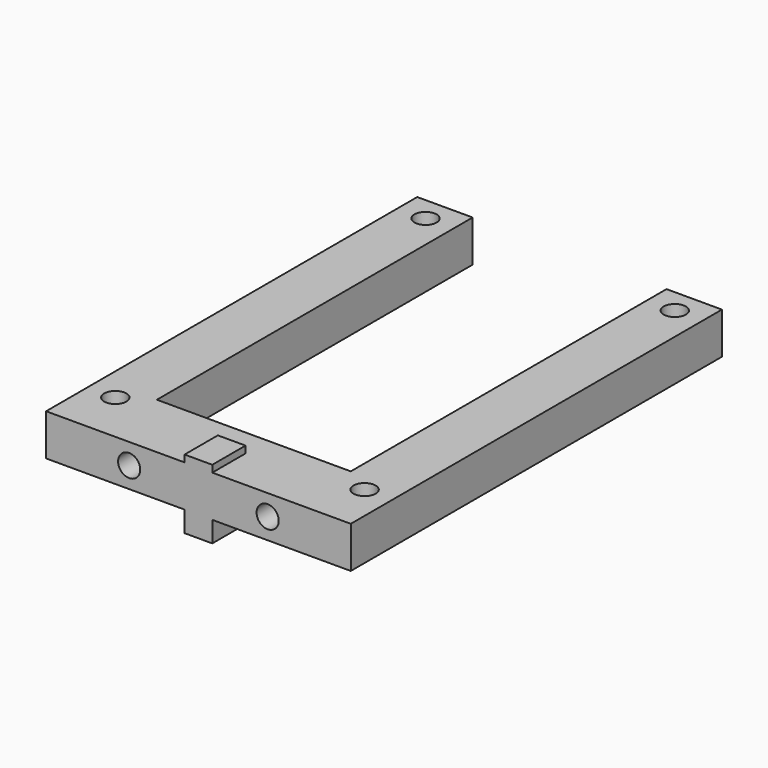
from build123d import *

# Parameters (mm, degrees)
SKETCH_W             = 44
SKETCH_H             = 67
PAD_DEPTH            = 6
SKETCH001_W          = 28
SKETCH001_H          = 60
POCKET_DEPTH         = 0.001
POCKET_DEPTH_BACK    = -6.001
BOX_W                = 4
BOX_H                = 6
BOX_DEPTH            = 10
SKETCH003_R          = 1.6
POCKET002_DEPTH      = 3.001
POCKET002_DEPTH_BACK = -7.001
SKETCH004_R          = 1.6
POCKET003_DEPTH      = 33.501


with BuildPart() as part:
    # Sketch → Pad (new body)
    with BuildSketch(Plane.XY):
        Rectangle(SKETCH_W, SKETCH_H)
    extrude(amount=PAD_DEPTH)

    # Sketch001 → Pocket (cut, two sides)
    with BuildSketch(Plane.XY) as pocket_sk:
        with Locations((0, 6.5)):
            Rectangle(SKETCH001_W, SKETCH001_H)
    extrude(amount=-POCKET_DEPTH, mode=Mode.SUBTRACT)
    extrude(pocket_sk.sketch, amount=-POCKET_DEPTH_BACK, mode=Mode.SUBTRACT)

    # Box → Box (join)
    with BuildSketch(Plane(origin=(-2, -33.5, -3), x_dir=(1, 0, 0), z_dir=(0, 0, 1))):
        with Locations((2, 3)):
            Rectangle(BOX_W, BOX_H)
    extrude(amount=BOX_DEPTH)

    # Sketch003 → Pocket002 (cut, two sides)
    with BuildSketch(Plane.XY) as pocket002_sk:
        with Locations((-18, 30)):
            Circle(SKETCH003_R)
        with Locations((-18, -26)):
            Circle(SKETCH003_R)
        with Locations((18, 30)):
            Circle(SKETCH003_R)
        with Locations((18, -26)):
            Circle(SKETCH003_R)
    extrude(amount=-POCKET002_DEPTH, mode=Mode.SUBTRACT)
    extrude(pocket002_sk.sketch, amount=-POCKET002_DEPTH_BACK, mode=Mode.SUBTRACT)

    # Sketch004 → Pocket003 (cut, through all)
    with BuildSketch(Plane.XZ):
        with Locations((10, 3)):
            Circle(SKETCH004_R)
        with Locations((-10, 3)):
            Circle(SKETCH004_R)
    extrude(amount=POCKET003_DEPTH, mode=Mode.SUBTRACT)


solid = part.part
